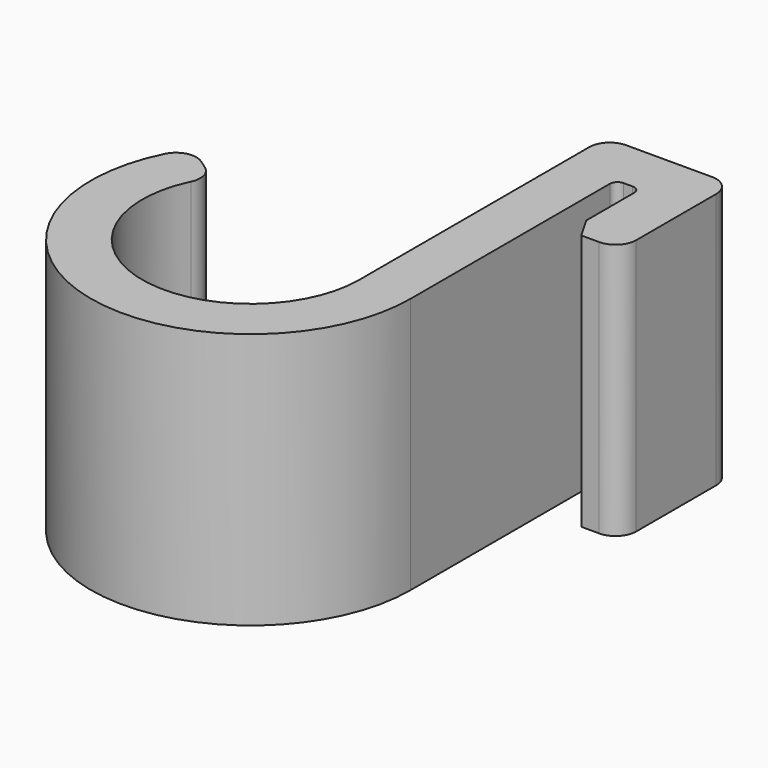
from build123d import *

# Parameters (mm, degrees)
F1_DEPTH = 25.4
F2_R     = 0.762
F3_R     = 2.032
F4_SIZE2 = 2.1997045256
F4_SIZE  = 1.27


with BuildPart() as f1:
    # F0 (on Top) → F1 (new body)
    with BuildSketch(Plane.XY):
        with BuildLine():
            ThreePointArc((10.7569, 0), (-3.2346622147, -10.2590378675), (-8.8115366252, 6.1699043682))
            Line((-8.8115366252, 6.1699043682), (-12.9728290102, 9.0836726648))
            ThreePointArc((-12.9728290102, 9.0836726648), (-4.7622476762, -15.1039199773), (15.8369, 0))
            Line((15.8369, 0), (15.8369, 25.4))
            Line((15.8369, 25.4), (18.2499, 25.4))
            Line((18.2499, 25.4), (18.2499, 16.51))
            Line((18.2499, 16.51), (23.3299, 16.51))
            Line((23.3299, 16.51), (23.3299, 30.48))
            Line((23.3299, 30.48), (10.7569, 30.48))
            Line((10.7569, 30.48), (10.7569, 0))
        make_face()
    extrude(amount=F1_DEPTH)

    # F2
    f2_edges = [f1.edges().sort_by_distance(p)[0] for p in [
        (15.8369, 25.4, 12.7),
        (18.2499, 25.4, 12.7),
    ]]
    fillet(f2_edges, radius=F2_R)

    # F3
    f3_edges = [f1.edges().sort_by_distance(p)[0] for p in [
        (23.3299, 16.51, 12.7),
        (23.3299, 30.48, 12.7),
        (10.7569, 30.48, 12.7),
        (-8.811537, 6.169904, 12.7),
        (-12.972829, 9.083673, 12.7),
    ]]
    fillet(f3_edges, radius=F3_R)

    # F4
    f4_edges = [f1.edges().sort_by_distance(p)[0] for p in [
        (18.2499, 16.51, 12.7),
    ]]
    f4_side = f1.faces().sort_by_distance((19.7739, 16.51, 12.7))[0]
    chamfer(f4_edges, length=F4_SIZE, length2=F4_SIZE2, reference=f4_side)


solid = f1.part
